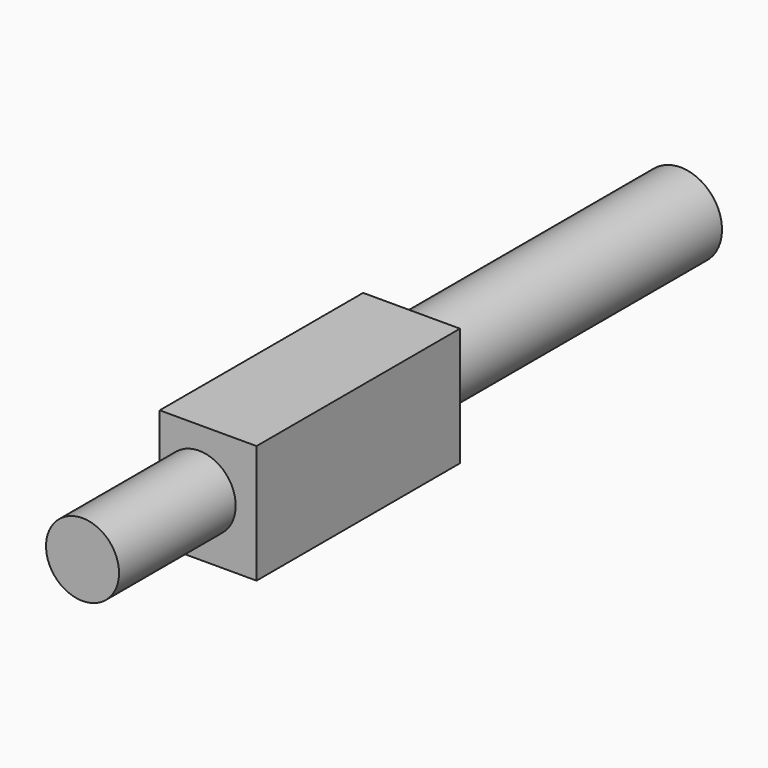
from build123d import *

# Parameters (mm, degrees)
F0_W       = 41.4983332157
F0_H       = 50.7746972144
F0_R       = 9.7686704189
F1_DEPTH   = 62.484
F2_R       = 15.6433873562
F1_FACE1_W = 41.4983332157
F1_FACE1_H = 50.7746972144
F1_FACE1_R = 9.7686704189
F3_DEPTH   = 108.966
F4_R       = 17.7535536274
F5_DEPTH   = 148.844
F6_R       = 6.8253458282
F7_DEPTH   = 248.92


with BuildPart() as f1:
    # F0 (on Front) → F1 (new body)
    with BuildSketch(Plane.XZ):
        with Locations((-87.555155158, -25.3873486072)):
            Rectangle(F0_W, F0_H)
        with Locations((-91.3773775101, -25.3873486072)):
            Circle(F0_R, mode=Mode.SUBTRACT)
    extrude(amount=-F1_DEPTH)

    # F2 (on face) + F1_face1 (on face) → F3 (join)
    with BuildSketch(Plane.XZ):
        with Locations((-91.3773775101, -25.3873486072)):
            Circle(F2_R)
    with BuildSketch(Plane(origin=(-86.9211204596, 62.484, -25.3873486072), x_dir=(1, 0, 0), z_dir=(0, 1, 0))):
        with Locations((-0.6340346985, 0)):
            Rectangle(F1_FACE1_W, F1_FACE1_H)
        with Locations((-4.4562570505, 0)):
            Circle(F1_FACE1_R, mode=Mode.SUBTRACT)
    extrude(amount=F3_DEPTH, dir=(0, -1, 0))

    # F4 (on face) → F5 (join)
    with BuildSketch(Plane(origin=(0, 62.484, 0), x_dir=(-1, 0, 0), z_dir=(0, 1, 0))):
        with Locations((91.3773775101, -25.3873486072)):
            Circle(F4_R)
    extrude(amount=F5_DEPTH)

    # F6 (on face) → F7 (join)
    with BuildSketch(Plane.XZ.offset(108.966)):
        with Locations((-91.3773775101, -25.3873486072)):
            Circle(F6_R)
    extrude(amount=-F7_DEPTH)


solid = f1.part
